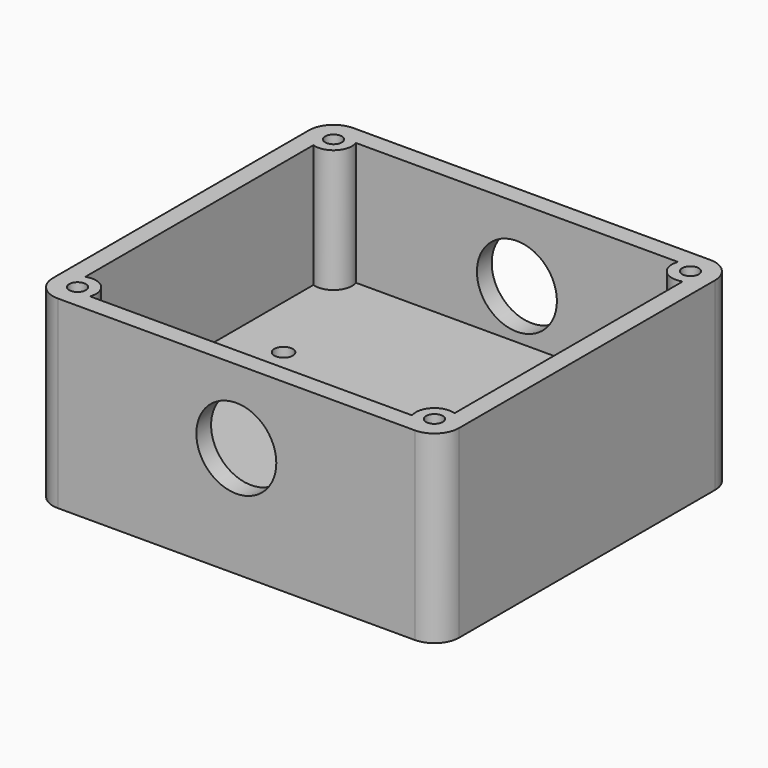
from build123d import *

# Parameters (mm, degrees)
SKETCH_W        = 66
SKETCH_H        = 60
PAD_DEPTH       = 30
FILLET_R        = 4
SKETCH001_R     = 1.35
POCKET_DEPTH    = 27
POCKET001_DEPTH = 20
SKETCH003_R     = 1.5
POCKET002_DEPTH = 9.5
SKETCH004_R     = 6.5
POCKET003_DEPTH = 60.001


with BuildPart() as part:
    # Sketch → Pad (new body)
    with BuildSketch(Plane.XY):
        Rectangle(SKETCH_W, SKETCH_H)
    extrude(amount=PAD_DEPTH)

    # Fillet
    fillet_edges = [part.edges().sort_by_distance(p)[0] for p in [
        (-33, -30, 15),
        (33, -30, 15),
        (33, 30, 15),
        (-33, 30, 15),
    ]]
    fillet(fillet_edges, radius=FILLET_R)

    # Sketch001 (on Face5 of Fillet) → Pocket (cut)
    with BuildSketch(Plane.XY.offset(30)):
        with Locations((-29, 26)):
            Circle(SKETCH001_R)
        with Locations((29, 26)):
            Circle(SKETCH001_R)
        with Locations((29, -26)):
            Circle(SKETCH001_R)
        with Locations((-29, -26)):
            Circle(SKETCH001_R)
    extrude(amount=-POCKET_DEPTH, mode=Mode.SUBTRACT)

    # Sketch002 (on Face5 of Pocket) → Pocket001 (cut)
    with BuildSketch(Plane.XY.offset(30)):
        with BuildLine():
            ThreePointArc((-30, 23.171573), (-26.87868, 23.87868), (-26.171573, 27))
            Line((26.171573, 27), (-26.171573, 27))
            ThreePointArc((26.171573, 27), (26.87868, 23.87868), (30, 23.171573))
            Line((30, -23.171573), (30, 23.171573))
            ThreePointArc((30, -23.171573), (26.87868, -23.87868), (26.171573, -27))
            Line((-26.171573, -27), (26.171573, -27))
            ThreePointArc((-26.171573, -27), (-26.87868, -23.87868), (-30, -23.171573))
            Line((-30, 23.171573), (-30, -23.171573))
        make_face()
    extrude(amount=-POCKET001_DEPTH, mode=Mode.SUBTRACT)

    # Sketch003 (on Face26 of Pocket001) → Pocket002 (cut)
    with BuildSketch(Plane.XY.offset(10)):
        with Locations((-21.4, 6.35)):
            Circle(SKETCH003_R)
        with Locations((21.4, 6.35)):
            Circle(SKETCH003_R)
        with Locations((21.4, -6.35)):
            Circle(SKETCH003_R)
        with Locations((-21.4, -6.35)):
            Circle(SKETCH003_R)
    extrude(amount=-POCKET002_DEPTH, mode=Mode.SUBTRACT)

    # Sketch004 (on Face6 of Pocket002) → Pocket003 (cut, through all)
    with BuildSketch(Plane.XZ.offset(30)):
        with Locations((0, 18)):
            Circle(SKETCH004_R)
    extrude(amount=-POCKET003_DEPTH, mode=Mode.SUBTRACT)


solid = part.part
